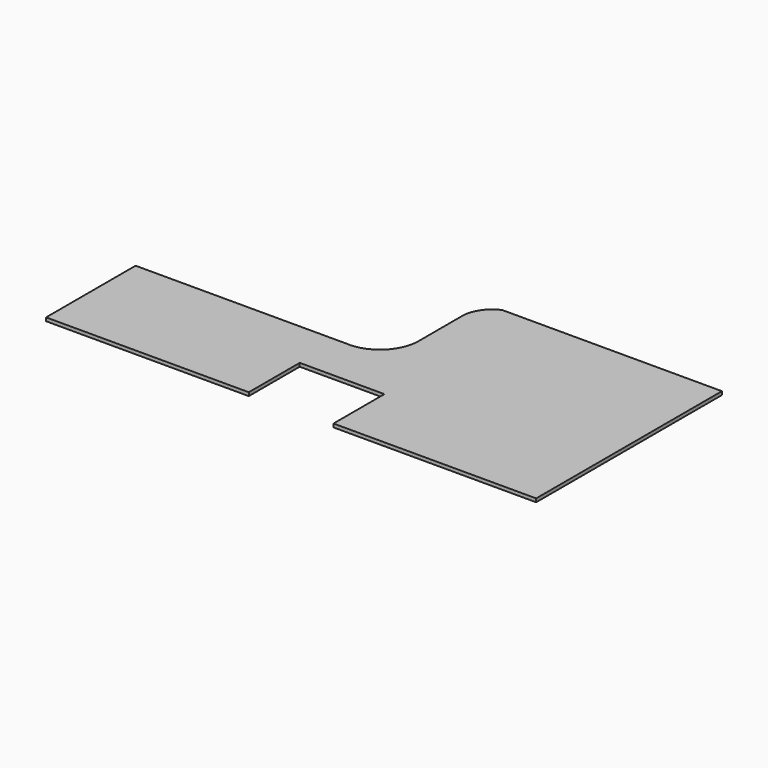
from build123d import *

# Parameters (mm, degrees)
F0_W     = 1
F0_H     = 6
F0_W_2   = 96.5
F1_DEPTH = 4


with BuildPart() as f1:
    # F0 (on Top) → F1 (new body)
    with BuildSketch(Plane.XY):
        with BuildLine():
            Line((-291.7007803917, -157.5256759562), (-55.8865144849, -157.5256759562))
            Line((-55.8865144849, -157.5256759562), (-55.8865144849, -83.4614100494))
            Line((-55.8865144849, -83.4614100494), (-55.8865144849, -77.4614100494))
            Line((-55.8865144849, -77.4614100494), (-54.8865144849, -77.4614100494))
            Line((-54.8865144849, -77.4614100494), (41.6134855151, -77.4614100494))
            Line((41.6134855151, -77.4614100494), (42.6134855151, -77.4614100494))
            Line((42.6134855151, -77.4614100494), (42.6134855151, -83.4614100494))
            Line((42.6134855151, -83.4614100494), (42.6134855151, -157.5256759562))
            Line((42.6134855151, -157.5256759562), (278.4277514219, -157.5256759562))
            Line((278.4277514219, -157.5256759562), (278.4277514219, 112.6028558574))
            Line((278.4277514219, 112.6028558574), (22.9277393461, 112.6028558574))
            ThreePointArc((22.9277393461, 112.6028558574), (6.7223803738, 98.5655061138), (1.7183407144, 77.7179538753))
            Line((1.7183407144, 77.7179538753), (1.7183407144, 17.5473609517))
            ThreePointArc((1.7183407144, 17.5473609517), (-12.6941933844, -15.5861694622), (-46.841709457, -27.3971441426))
            Line((-46.841709457, -27.3971441426), (-291.7007803917, -27.3971441426))
            Line((-291.7007803917, -27.3971441426), (-291.7007803917, -157.5256759562))
        make_face()
        with Locations((-55.3865144849, -80.4614100494)):
            Rectangle(F0_W, F0_H)
        with Locations((42.1134855151, -80.4614100494)):
            Rectangle(F0_W, F0_H)
        with Locations((-6.6365144849, -80.4614100494)):
            Rectangle(F0_W_2, F0_H)
    extrude(amount=F1_DEPTH)


solid = f1.part
